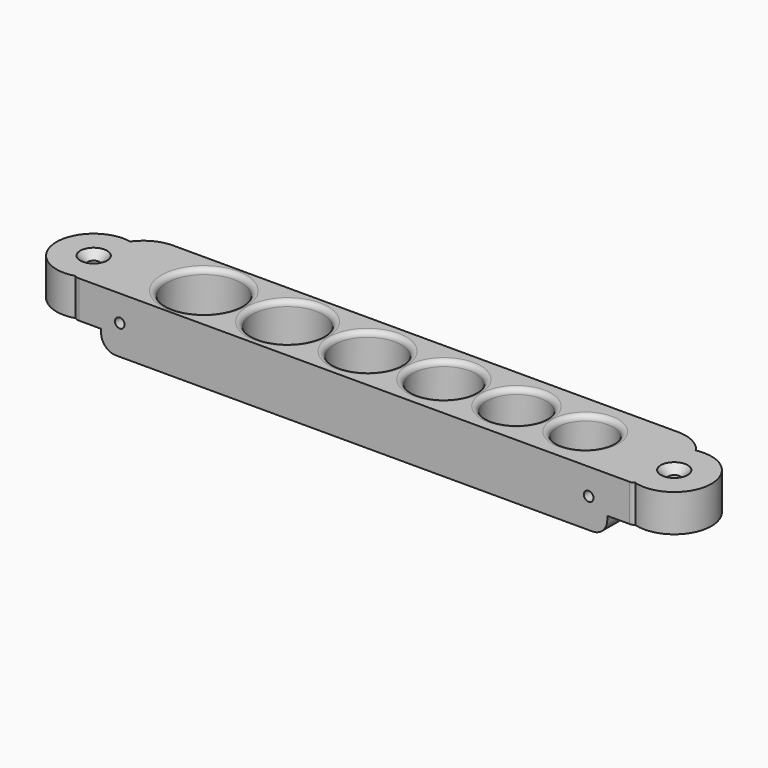
from build123d import *

# Parameters (mm, degrees)
BOX007_W          = 10
BOX007_H          = 24
BOX007_DEPTH      = 10
FILLET034_R       = 2
CHAMFER004_SIZE   = 4
FILLET035_R       = 2
FILLET036_R       = 10
BOX008_W          = 10
BOX008_H          = 24
BOX008_DEPTH      = 10
FILLET037_R       = 2
CHAMFER005_SIZE   = 4
FILLET038_R       = 2
FILLET039_R       = 10
TUBE005_R         = 10
TUBE005_R_2       = 1.6
TUBE005_DEPTH     = 10
TUBE004_R         = 10
TUBE004_R_2       = 1.6
TUBE004_DEPTH     = 10
CHAMFER006_SIZE   = 2
CYLINDER026_R     = 1.3
CYLINDER026_DEPTH = 25
CYLINDER025_R     = 1.3
CYLINDER025_DEPTH = 25
CYLINDER020_R     = 9.5
CYLINDER020_DEPTH = 30
CYLINDER021_R     = 9
CYLINDER021_DEPTH = 30
CYLINDER022_R     = 8.5
CYLINDER022_DEPTH = 30
CYLINDER023_R     = 8
CYLINDER023_DEPTH = 30
CYLINDER024_R     = 7.5
CYLINDER024_DEPTH = 30
CYLINDER019_R     = 10
CYLINDER019_DEPTH = 30
BOX006_W          = 136
BOX006_H          = 24
BOX006_DEPTH      = 15
FILLET040_R       = 4
FILLET041_R       = 1.4


with BuildPart() as fillet036:
    # Box007 → Box007 (new body)
    with BuildSketch(Plane(origin=(-26, -12, 0), x_dir=(1, 0, 0), z_dir=(0, 0, 1))):
        with Locations((5, 12)):
            Rectangle(BOX007_W, BOX007_H)
    extrude(amount=BOX007_DEPTH)

    # Fillet034
    fillet034_edges = [fillet036.edges().sort_by_distance(p)[0] for p in [
        (-26, -12, 5),
    ]]
    fillet(fillet034_edges, radius=FILLET034_R)

    # Chamfer004
    chamfer004_edges = [fillet036.edges().sort_by_distance(p)[0] for p in [
        (-26, 12, 5),
    ]]
    chamfer(chamfer004_edges, length=CHAMFER004_SIZE)

    # Fillet035
    fillet035_edges = [fillet036.edges().sort_by_distance(p)[0] for p in [
        (-26, 8, 5),
    ]]
    fillet(fillet035_edges, radius=FILLET035_R)

    # Fillet036
    fillet036_edges = [fillet036.edges().sort_by_distance(p)[0] for p in [
        (-22, 12, 5),
    ]]
    fillet(fillet036_edges, radius=FILLET036_R)


with BuildPart() as fillet039:
    # Box008 → Box008 (new body)
    with BuildSketch(Plane(origin=(116, -12, 0), x_dir=(1, 0, 0), z_dir=(0, 0, 1))):
        with Locations((5, 12)):
            Rectangle(BOX008_W, BOX008_H)
    extrude(amount=BOX008_DEPTH)

    # Fillet037
    fillet037_edges = [fillet039.edges().sort_by_distance(p)[0] for p in [
        (126, -12, 5),
    ]]
    fillet(fillet037_edges, radius=FILLET037_R)

    # Chamfer005
    chamfer005_edges = [fillet039.edges().sort_by_distance(p)[0] for p in [
        (126, 12, 5),
    ]]
    chamfer(chamfer005_edges, length=CHAMFER005_SIZE)

    # Fillet038
    fillet038_edges = [fillet039.edges().sort_by_distance(p)[0] for p in [
        (126, 8, 5),
    ]]
    fillet(fillet038_edges, radius=FILLET038_R)

    # Fillet039
    fillet039_edges = [fillet039.edges().sort_by_distance(p)[0] for p in [
        (122, 12, 5),
    ]]
    fillet(fillet039_edges, radius=FILLET039_R)


with BuildPart() as tube005:
    # Tube005 → Tube005 (new body)
    with BuildSketch(Plane(origin=(128, -2, 0), x_dir=(1, 0, 0), z_dir=(0, 0, 1))):
        Circle(TUBE005_R)
        Circle(TUBE005_R_2, mode=Mode.SUBTRACT)
    extrude(amount=TUBE005_DEPTH)


with BuildPart() as chamfer006:
    # Tube004 → Tube004 (new body)
    with BuildSketch(Plane(origin=(-28, -2, 0), x_dir=(1, 0, 0), z_dir=(0, 0, 1))):
        Circle(TUBE004_R)
        Circle(TUBE004_R_2, mode=Mode.SUBTRACT)
    extrude(amount=TUBE004_DEPTH)

    # Fusion010: union Fillet036, Fillet039, Tube005
    add(fillet036.part)
    add(fillet039.part)
    add(tube005.part)


with BuildPart() as chamfer006_1:
    # Fusion010 placement: moved
    add(chamfer006.part.moved(Location((0, 0, 20))))

    # Chamfer006
    chamfer006_edges = [chamfer006_1.edges().sort_by_distance(p)[0] for p in [
        (-29.6, -2, 30),
        (126.4, -2, 30),
    ]]
    chamfer(chamfer006_edges, length=CHAMFER006_SIZE)


with BuildPart() as obj1:
    # Cylinder026 → Cylinder026 (new body)
    with BuildSketch(Plane(origin=(113, -20, 23), x_dir=(1, 0, 0), z_dir=(0, 1, 0))):
        Circle(CYLINDER026_R)
    extrude(amount=CYLINDER026_DEPTH)


with BuildPart() as fusion011:
    # Cylinder025 → Cylinder025 (new body)
    with BuildSketch(Plane(origin=(-13, -20, 23), x_dir=(1, 0, 0), z_dir=(0, 1, 0))):
        Circle(CYLINDER025_R)
    extrude(amount=CYLINDER025_DEPTH)

    # Fusion011: union obj1
    add(obj1.part)


with BuildPart() as cylinder020:
    # Cylinder020 → Cylinder020 (new body)
    with BuildSketch(Plane(origin=(22.5, 0, 0), x_dir=(1, 0, 0), z_dir=(0, 0, 1))):
        Circle(CYLINDER020_R)
    extrude(amount=CYLINDER020_DEPTH)


with BuildPart() as cylinder021:
    # Cylinder021 → Cylinder021 (new body)
    with BuildSketch(Plane(origin=(44, 0, 0), x_dir=(1, 0, 0), z_dir=(0, 0, 1))):
        Circle(CYLINDER021_R)
    extrude(amount=CYLINDER021_DEPTH)


with BuildPart() as cylinder022:
    # Cylinder022 → Cylinder022 (new body)
    with BuildSketch(Plane(origin=(64.5, 0, 0), x_dir=(1, 0, 0), z_dir=(0, 0, 1))):
        Circle(CYLINDER022_R)
    extrude(amount=CYLINDER022_DEPTH)


with BuildPart() as cylinder023:
    # Cylinder023 → Cylinder023 (new body)
    with BuildSketch(Plane(origin=(84, 0, 0), x_dir=(1, 0, 0), z_dir=(0, 0, 1))):
        Circle(CYLINDER023_R)
    extrude(amount=CYLINDER023_DEPTH)


with BuildPart() as cylinder024:
    # Cylinder024 → Cylinder024 (new body)
    with BuildSketch(Plane(origin=(102.5, 0, 0), x_dir=(1, 0, 0), z_dir=(0, 0, 1))):
        Circle(CYLINDER024_R)
    extrude(amount=CYLINDER024_DEPTH)


with BuildPart() as fusion009:
    # Cylinder019 → Cylinder019 (new body)
    with BuildSketch(Plane.XY):
        Circle(CYLINDER019_R)
    extrude(amount=CYLINDER019_DEPTH)

    # Fusion009: union Cylinder020, Cylinder021, Cylinder022, Cylinder023, Cylinder024
    add(cylinder020.part)
    add(cylinder021.part)
    add(cylinder022.part)
    add(cylinder023.part)
    add(cylinder024.part)


with BuildPart() as top_l:
    # Box006 → Box006 (new body)
    with BuildSketch(Plane(origin=(-18, -12, 15), x_dir=(1, 0, 0), z_dir=(0, 0, 1))):
        with Locations((68, 12)):
            Rectangle(BOX006_W, BOX006_H)
    extrude(amount=BOX006_DEPTH)

    # Cut003: cut Fusion009
    add(fusion009.part, mode=Mode.SUBTRACT)

    # Fillet040
    fillet040_edges = [top_l.edges().sort_by_distance(p)[0] for p in [
        (-18, 0, 15),
        (118, 0, 15),
    ]]
    fillet(fillet040_edges, radius=FILLET040_R)

    # Fillet041
    fillet041_edges = [top_l.edges().sort_by_distance(p)[0] for p in [
        (-10, 0, 30),
        (13, 0, 30),
        (35, 0, 30),
        (56, 0, 30),
        (76, 0, 30),
        (95, 0, 30),
        (-10, 0, 15),
        (13, 0, 15),
        (35, 0, 15),
        (56, 0, 15),
        (76, 0, 15),
        (95, 0, 15),
    ]]
    fillet(fillet041_edges, radius=FILLET041_R)

    # Cut004: cut Fusion011
    add(fusion011.part, mode=Mode.SUBTRACT)

    # Fusion012: union Chamfer006
    add(chamfer006_1.part)


with BuildPart() as top_l_1:
    # Fusion012 placement: moved
    add(top_l.part.moved(Location((-156, -13, 170))))


solid = top_l_1.part
